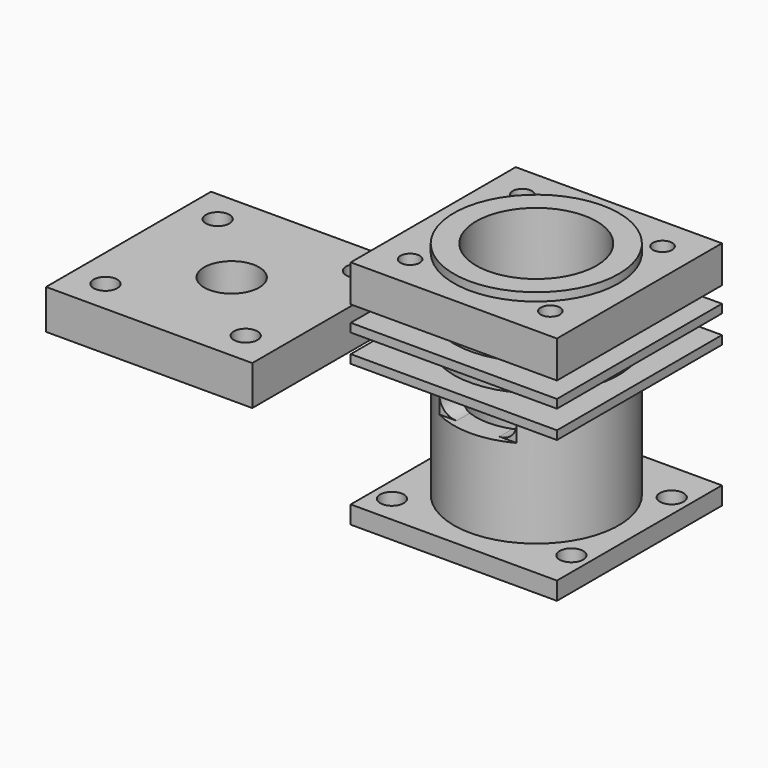
from build123d import *

# Parameters (mm, degrees)
F0_W      = 19.05
F0_H      = 19.05
F1_DEPTH  = 22.987
F4_R      = 5.55625
F5_DEPTH  = 22.988
F4_W      = 19.05
F4_H      = 19.05
F4_R_2    = 0.889
F4_R_3    = 7.62
F6_DEPTH  = 0.762
F8_DEPTH  = 11.43
F7_W      = 19.05
F7_H      = 19.05
F7_R      = 1.0922
F7_R_2    = 7.62
F9_DEPTH  = 0.889
F10_DEPTH = 2.54
F12_DEPTH = 9.525
F13_DEPTH = 2.794
F14_DEPTH = 4.445
F15_W     = 19.05
F15_H     = 19.05
F15_R     = 1.0922
F15_R_2   = 2.54
F16_DEPTH = 3.6576
F17_R     = 5.5626
F17_R_2   = 2.54
F18_DEPTH = 0.254
F17_R_3   = 7.62
F19_DEPTH = 0.9398


with BuildPart() as f1:
    # F0 (on Top) → F1 (new body)
    with BuildSketch(Plane.XY):
        Rectangle(F0_W, F0_H)
    extrude(amount=F1_DEPTH)

    # F2 (on Front) → F3 (revolve, cut)
    with BuildSketch(Plane.XZ):
        Polygon((-14.53140378, 2.54), (-7.62, 2.54), (-7.62, 13.97), (-14.1886780038, 13.97), (-14.1886780038, 14.76375), (-7.62, 14.76375), (-7.62, 16.51635), (-14.231517911, 16.51635), (-14.231517911, 17.3101), (-7.62, 17.3101), (-7.62, 18.8087), (-14.53140378, 18.8087), align=None)
        Polygon((-14.53140378, 2.54), (-7.62, 2.54), (-7.62, 13.97), (-14.1886780038, 13.97), (-14.1886780038, 14.76375), (-7.62, 14.76375), (-7.62, 16.51635), (-14.231517911, 16.51635), (-14.231517911, 17.3101), (-7.62, 17.3101), (-7.62, 18.8087), (-14.53140378, 18.8087), align=None)
        Polygon((-14.53140378, 2.54), (-7.62, 2.54), (-7.62, 13.97), (-14.1886780038, 13.97), (-14.1886780038, 14.76375), (-7.62, 14.76375), (-7.62, 16.51635), (-14.231517911, 16.51635), (-14.231517911, 17.3101), (-7.62, 17.3101), (-7.62, 18.8087), (-14.53140378, 18.8087), align=None)
    revolve(axis=Axis((0, 0, 1.4164929744), (0, 0, 1)), mode=Mode.SUBTRACT)

    # F4 (on face) → F5 (cut, through all)
    with BuildSketch(Plane.XY.offset(22.987)):
        Circle(F4_R)
    extrude(amount=-F5_DEPTH, mode=Mode.SUBTRACT)

    # F4 (on face) → F6 (cut)
    with BuildSketch(Plane.XY.offset(22.987)):
        Rectangle(F4_W, F4_H)
        with Locations((-6.477, -6.477)):
            Circle(F4_R_2, mode=Mode.SUBTRACT)
        with Locations((6.477, -6.477)):
            Circle(F4_R_2, mode=Mode.SUBTRACT)
        with Locations((-6.477, 6.477)):
            Circle(F4_R_2, mode=Mode.SUBTRACT)
        Circle(F4_R_3, mode=Mode.SUBTRACT)
        with Locations((6.477, 6.477)):
            Circle(F4_R_2, mode=Mode.SUBTRACT)
    extrude(amount=-F6_DEPTH, mode=Mode.SUBTRACT)

    # F7 (on face) → F8 (cut)
    with BuildSketch(Plane(origin=(0, 0, 0), x_dir=(1, 0, 0), z_dir=(0, 0, -1))):
        with BuildLine():
            ThreePointArc((0.3302, -7.1374), (1.9836581098, -6.472214015), (2.7158084952, -4.8472980391))
            ThreePointArc((2.7158084952, -4.8472980391), (2.3731030405, -5.0239721358), (2.018970134, -5.1764537727))
            ThreePointArc((2.018970134, -5.1764537727), (1.323196504, -6.4722731523), (0, -7.1144567869))
            ThreePointArc((0, -7.1144567869), (0.1647019403, -7.1316572905), (0.3302, -7.1374))
        make_face()
        with BuildLine():
            ThreePointArc((0, -7.1144567869), (-1.323196504, -6.4722731523), (-2.018970134, -5.1764537727))
            ThreePointArc((-2.018970134, -5.1764537727), (-2.3731030405, -5.0239721358), (-2.7158084952, -4.8472980391))
            ThreePointArc((-2.7158084952, -4.8472980391), (-1.9836581098, -6.472214015), (-0.3302, -7.1374))
            ThreePointArc((-0.3302, -7.1374), (-0.1647019403, -7.1316572905), (0, -7.1144567869))
        make_face()
        with BuildLine():
            ThreePointArc((2.018970134, -5.1764537727), (0, -5.55625), (-2.018970134, -5.1764537727))
            ThreePointArc((-2.018970134, -5.1764537727), (-1.323196504, -6.4722731523), (0, -7.1144567869))
            ThreePointArc((0, -7.1144567869), (1.323196504, -6.4722731523), (2.018970134, -5.1764537727))
        make_face()
        with BuildLine():
            Line((-0.3302, -7.1374), (0.3302, -7.1374))
            ThreePointArc((0.3302, -7.1374), (0.1647019403, -7.1316572905), (0, -7.1144567869))
            ThreePointArc((0, -7.1144567869), (-0.1647019403, -7.1316572905), (-0.3302, -7.1374))
        make_face()
    extrude(amount=-F8_DEPTH, mode=Mode.SUBTRACT)

    # F7 (on face) → F9 (cut)
    with BuildSketch(Plane(origin=(0, 0, 0), x_dir=(1, 0, 0), z_dir=(0, 0, -1))):
        Rectangle(F7_W, F7_H)
        with Locations((-7.747, -6.985)):
            Circle(F7_R, mode=Mode.SUBTRACT)
        with Locations((7.874, -5.7912)):
            Circle(F7_R, mode=Mode.SUBTRACT)
        with Locations((-7.747, 6.985)):
            Circle(F7_R, mode=Mode.SUBTRACT)
        Circle(F7_R_2, mode=Mode.SUBTRACT)
        with Locations((7.874, 5.7912)):
            Circle(F7_R, mode=Mode.SUBTRACT)
    extrude(amount=-F9_DEPTH, mode=Mode.SUBTRACT)

    # F7 (on face) → F10 (cut)
    with BuildSketch(Plane(origin=(0, 0, 0), x_dir=(1, 0, 0), z_dir=(0, 0, -1))):
        with Locations((-7.747, 6.985)):
            Circle(F7_R)
        with Locations((7.874, 5.7912)):
            Circle(F7_R)
        with Locations((7.874, -5.7912)):
            Circle(F7_R)
        with Locations((-7.747, -6.985)):
            Circle(F7_R)
    extrude(amount=-F10_DEPTH, mode=Mode.SUBTRACT)

    # F11 (on face) → F12 (cut)
    with BuildSketch(Plane.XZ.offset(9.525)):
        with BuildLine():
            Line((-1.9812, 10.6553), (1.9812, 10.6553))
            ThreePointArc((1.9812, 10.6553), (3.1037320151, 11.1202679849), (3.5687, 12.2428))
            ThreePointArc((3.5687, 12.2428), (3.1037320151, 13.3653320151), (1.9812, 13.8303))
            Line((1.9812, 13.8303), (-1.9812, 13.8303))
            ThreePointArc((-1.9812, 13.8303), (-3.1037320151, 13.3653320151), (-3.5687, 12.2428))
            ThreePointArc((-3.5687, 12.2428), (-3.1037320151, 11.1202679849), (-1.9812, 10.6553))
        make_face()
    extrude(amount=-F12_DEPTH, mode=Mode.SUBTRACT)

    # F11 (on face) → F13 (cut)
    with BuildSketch(Plane.XZ.offset(9.525)):
        with BuildLine():
            ThreePointArc((3.5687, 12.2428), (3.1037320151, 11.1202679849), (1.9812, 10.6553))
            Line((1.9812, 10.6553), (3.5687, 10.6553))
            Line((3.5687, 10.6553), (3.5687, 12.2428))
        make_face()
        with BuildLine():
            ThreePointArc((1.9812, 13.8303), (3.1037320151, 13.3653320151), (3.5687, 12.2428))
            Line((3.5687, 12.2428), (3.5687, 13.8303))
            Line((3.5687, 13.8303), (1.9812, 13.8303))
        make_face()
        with BuildLine():
            Line((-3.5687, 13.8303), (-3.5687, 12.2428))
            ThreePointArc((-3.5687, 12.2428), (-3.1037320151, 13.3653320151), (-1.9812, 13.8303))
            Line((-1.9812, 13.8303), (-3.5687, 13.8303))
        make_face()
        with BuildLine():
            Line((-3.5687, 10.6553), (-1.9812, 10.6553))
            ThreePointArc((-1.9812, 10.6553), (-3.1037320151, 11.1202679849), (-3.5687, 12.2428))
            Line((-3.5687, 12.2428), (-3.5687, 10.6553))
        make_face()
    extrude(amount=-F13_DEPTH, mode=Mode.SUBTRACT)

    # F4 (on face) → F14 (cut)
    with BuildSketch(Plane.XY.offset(22.987)):
        with Locations((6.477, 6.477)):
            Circle(F4_R_2)
        with Locations((6.477, -6.477)):
            Circle(F4_R_2)
        with Locations((-6.477, -6.477)):
            Circle(F4_R_2)
        with Locations((-6.477, 6.477)):
            Circle(F4_R_2)
    extrude(amount=-F14_DEPTH, mode=Mode.SUBTRACT)


with BuildPart() as f16:
    # F15 (on Top) → F16 (new body)
    with BuildSketch(Plane.XY):
        with Locations((-37.0439876556, 11.1265230238)):
            Rectangle(F15_W, F15_H)
        with Locations((-43.5209876556, 4.6495230238)):
            Circle(F15_R, mode=Mode.SUBTRACT)
        with Locations((-30.5669876556, 4.6495230238)):
            Circle(F15_R, mode=Mode.SUBTRACT)
        with Locations((-37.0439876556, 11.1265230238)):
            Circle(F15_R_2, mode=Mode.SUBTRACT)
        with Locations((-43.5209876556, 17.6035230238)):
            Circle(F15_R, mode=Mode.SUBTRACT)
        with Locations((-30.5669876556, 17.6035230238)):
            Circle(F15_R, mode=Mode.SUBTRACT)
    extrude(amount=F16_DEPTH)

    # F17 (on face) → F18 (join)
    with BuildSketch(Plane(origin=(0, 0, 0), x_dir=(1, 0, 0), z_dir=(0, 0, -1))):
        with Locations((-37.0439876556, -11.1265230238)):
            Circle(F17_R)
        with Locations((-37.0439876556, -11.1265230238)):
            Circle(F17_R_2, mode=Mode.SUBTRACT)
    extrude(amount=F18_DEPTH)

    # F17 (on face) → F19 (cut)
    with BuildSketch(Plane(origin=(0, 0, 0), x_dir=(1, 0, 0), z_dir=(0, 0, -1))):
        with Locations((-37.0439876556, -11.1265230238)):
            Circle(F17_R_3)
        with Locations((-37.0439876556, -11.1265230238)):
            Circle(F17_R, mode=Mode.SUBTRACT)
    extrude(amount=-F19_DEPTH, mode=Mode.SUBTRACT)


solid = Compound([f1.part, f16.part])
